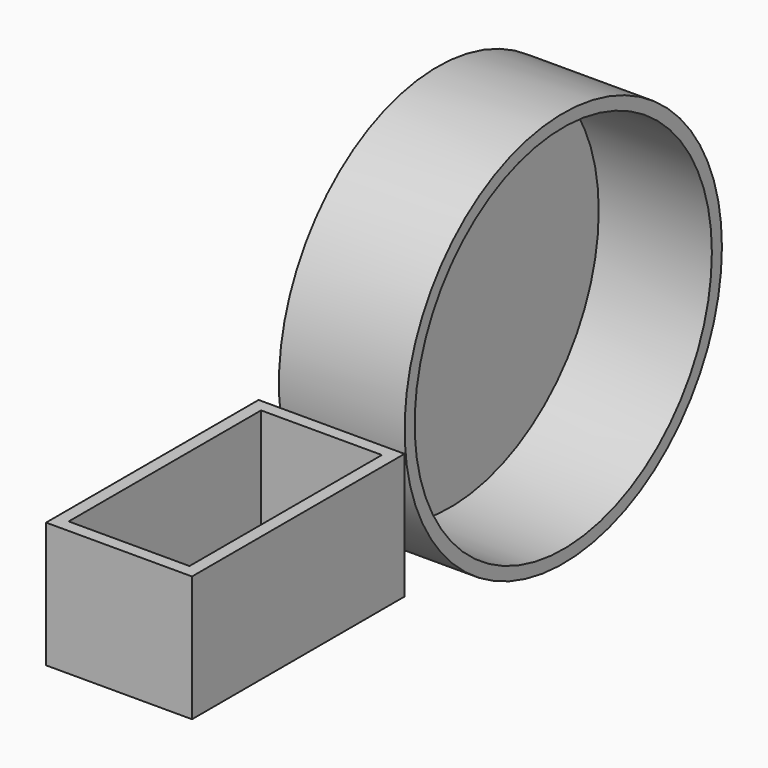
from build123d import *

# Parameters (mm, degrees)
F0_W     = 29.0244165808
F0_H     = 52.8283752501
F1_DEPTH = 25
F2_T     = -2.5
F3_D     = 1
F3_DEPTH = 2
F3_TIP   = 0.3004303095
F4_R     = 39.4461463806
F5_DEPTH = 25
F6_T     = -2.5


with BuildPart() as f1:
    # F0 (on Top) → F1 (new body)
    with BuildSketch(Plane.XY):
        with Locations((14.5122082904, -26.4141876251)):
            Rectangle(F0_W, F0_H)
    extrude(amount=F1_DEPTH)

    # F2
    f2_openings = [f1.faces().sort_by_distance(p)[0] for p in [
        (14.512208, -26.414188, 25),
    ]]
    offset(amount=F2_T, openings=f2_openings)

    # F3
    with Locations(Plane(origin=(0, 0, 0), x_dir=(1, 0, 0), z_dir=(0, 0, -1))):
        with Locations((14.5122082904, 16.7825967073), (14.5122082904, 39.2144955695)):
            Hole(F3_D / 2, depth=F3_DEPTH)
            with Locations((0, 0, -(F3_DEPTH + F3_TIP / 2))):  # 118° drill point
                Cone(0, F3_D / 2, F3_TIP, mode=Mode.SUBTRACT)


with BuildPart() as f5:
    # F4 (on Right) → F5 (new body)
    with BuildSketch(Plane.YZ):
        with Locations((44.5016138256, 25.825900957)):
            Circle(F4_R)
    extrude(amount=F5_DEPTH)

    # F6
    f6_openings = [f5.faces().sort_by_distance(p)[0] for p in [
        (25, 44.501614, 25.825901),
    ]]
    offset(amount=F6_T, openings=f6_openings)


solid = Compound([f1.part, f5.part])
